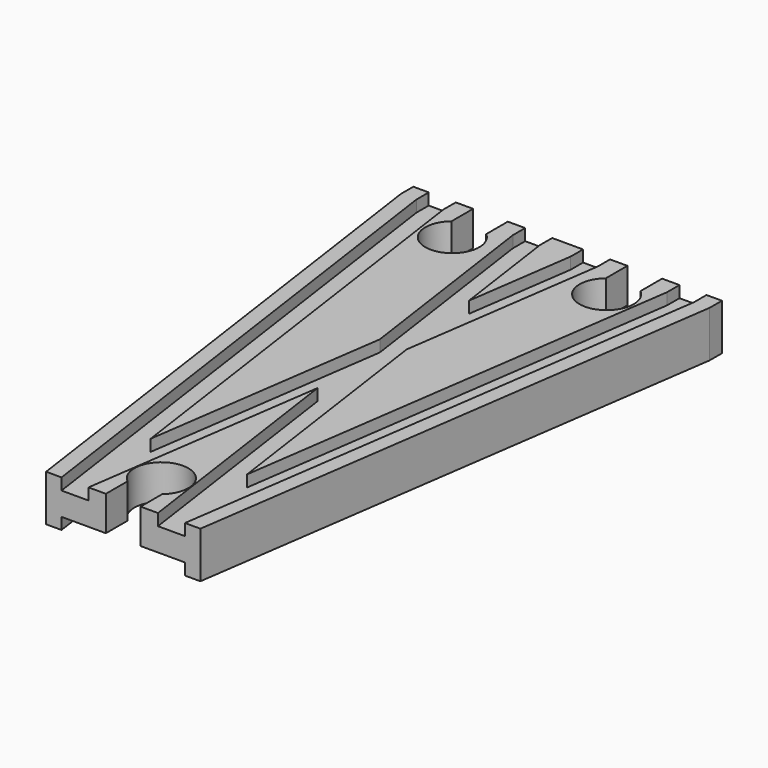
from build123d import *

# Parameters (mm, degrees)
SKETCH004_W          = 32
SKETCH004_H          = 3
SKETCH005_W          = 7
SKETCH005_H          = 3
SKETCH006_W          = 7
SKETCH006_H          = 3
POCKET_DEPTH         = 6.001
POCKET_DEPTH_BACK    = -6.001
POCKET001_DEPTH      = 6.001
POCKET001_DEPTH_BACK = -6.001
POCKET002_DEPTH      = 6.001
POCKET002_DEPTH_BACK = -6.001


with BuildPart() as part:
    # AdditivePipe: sweep along a path in Sketch
    with BuildLine(Plane.XY) as additivepipe_path:
        Line((-20, 144), (-20, 140))
        Line((-20, 140), (0, 0))
    # Sketch002 → AdditivePipe (sweep)
    with BuildSketch(Plane.XZ):
        Polygon((-20, 6), (-20, -6), (-16, -6), (-16, -3), (-9, -3), (9, -3), (16, -3), (16, -6), (20, -6), (20, 6), (16, 6), (16, 3), (9, 3), (9, 6), (-9, 6), (-9, 3), (-16, 3), (-16, 6), align=None)
    sweep(path=additivepipe_path.line)

    # AdditivePipe001: sweep along a path in Sketch001
    with BuildLine(Plane.XY) as additivepipe001_path:
        Line((20, 144), (20, 140))
        Line((20, 140), (0, 0))
    # Sketch002 → AdditivePipe001 (sweep)
    with BuildSketch(Plane.XZ):
        Polygon((-20, 6), (-20, -6), (-16, -6), (-16, -3), (-9, -3), (9, -3), (16, -3), (16, -6), (20, -6), (20, 6), (16, 6), (16, 3), (9, 3), (9, 6), (-9, 6), (-9, 3), (-16, 3), (-16, 6), align=None)
    sweep(path=additivepipe001_path.line)

    # SubtractivePipe: sweep along a path in Sketch
    with BuildLine(Plane.XY) as subtractivepipe_path:
        Line((-20, 144), (-20, 140))
        Line((-20, 140), (0, 0))
    # Sketch004 → SubtractivePipe (sweep, cut)
    with BuildSketch(Plane.XZ):
        with Locations((0, -4.5)):
            Rectangle(SKETCH004_W, SKETCH004_H)
    sweep(path=subtractivepipe_path.line, mode=Mode.SUBTRACT)

    # SubtractivePipe001: sweep along a path in Sketch001
    with BuildLine(Plane.XY) as subtractivepipe001_path:
        Line((20, 144), (20, 140))
        Line((20, 140), (0, 0))
    # Sketch004 → SubtractivePipe001 (sweep, cut)
    with BuildSketch(Plane.XZ):
        with Locations((0, -4.5)):
            Rectangle(SKETCH004_W, SKETCH004_H)
    sweep(path=subtractivepipe001_path.line, mode=Mode.SUBTRACT)

    # SubtractivePipe002: sweep along a path in Sketch
    with BuildLine(Plane.XY) as subtractivepipe002_path:
        Line((-20, 144), (-20, 140))
        Line((-20, 140), (0, 0))
    # Sketch005 → SubtractivePipe002 (sweep, cut)
    with BuildSketch(Plane.XZ):
        with Locations((-12.5, 4.5)):
            Rectangle(SKETCH005_W, SKETCH005_H)
    sweep(path=subtractivepipe002_path.line, mode=Mode.SUBTRACT)

    # SubtractivePipe003: sweep along a path in Sketch001
    with BuildLine(Plane.XY) as subtractivepipe003_path:
        Line((20, 144), (20, 140))
        Line((20, 140), (0, 0))
    # Sketch005 → SubtractivePipe003 (sweep, cut)
    with BuildSketch(Plane.XZ):
        with Locations((-12.5, 4.5)):
            Rectangle(SKETCH005_W, SKETCH005_H)
    sweep(path=subtractivepipe003_path.line, mode=Mode.SUBTRACT)

    # SubtractivePipe004: sweep along a path in Sketch
    with BuildLine(Plane.XY) as subtractivepipe004_path:
        Line((-20, 144), (-20, 140))
        Line((-20, 140), (0, 0))
    # Sketch006 → SubtractivePipe004 (sweep, cut)
    with BuildSketch(Plane.XZ):
        with Locations((12.5, 4.5)):
            Rectangle(SKETCH006_W, SKETCH006_H)
    sweep(path=subtractivepipe004_path.line, mode=Mode.SUBTRACT)

    # SubtractivePipe005: sweep along a path in Sketch001
    with BuildLine(Plane.XY) as subtractivepipe005_path:
        Line((20, 144), (20, 140))
        Line((20, 140), (0, 0))
    # Sketch006 → SubtractivePipe005 (sweep, cut)
    with BuildSketch(Plane.XZ):
        with Locations((12.5, 4.5)):
            Rectangle(SKETCH006_W, SKETCH006_H)
    sweep(path=subtractivepipe005_path.line, mode=Mode.SUBTRACT)

    # Sketch003 → Pocket (cut, two sides)
    with BuildSketch(Plane.XY) as pocket_sk:
        with BuildLine():
            Line((-4.5, 0), (4.5, 0))
            Line((4.5, 0), (4.5, 7))
            ThreePointArc((4.5, 7), (0, 19.361903), (-4.5, 7))
            Line((-4.5, 0), (-4.5, 7))
        make_face()
    extrude(amount=-POCKET_DEPTH, mode=Mode.SUBTRACT)
    extrude(pocket_sk.sketch, amount=-POCKET_DEPTH_BACK, mode=Mode.SUBTRACT)

    # Sketch007 → Pocket001 (cut, two sides)
    with BuildSketch(Plane.XY) as pocket001_sk:
        with BuildLine():
            Line((-24.5, 144), (-15.5, 144))
            Line((-15.5, 144), (-15.5, 137))
            ThreePointArc((-24.5, 137), (-20, 124.638097), (-15.5, 137))
            Line((-24.5, 144), (-24.5, 137))
        make_face()
    extrude(amount=-POCKET001_DEPTH, mode=Mode.SUBTRACT)
    extrude(pocket001_sk.sketch, amount=-POCKET001_DEPTH_BACK, mode=Mode.SUBTRACT)

    # Sketch008 → Pocket002 (cut, two sides)
    with BuildSketch(Plane.XY) as pocket002_sk:
        with BuildLine():
            Line((15.5, 144), (24.5, 144))
            Line((24.5, 144), (24.5, 137))
            ThreePointArc((15.5, 137), (20, 124.638097), (24.5, 137))
            Line((15.5, 144), (15.5, 137))
        make_face()
    extrude(amount=-POCKET002_DEPTH, mode=Mode.SUBTRACT)
    extrude(pocket002_sk.sketch, amount=-POCKET002_DEPTH_BACK, mode=Mode.SUBTRACT)


solid = part.part
